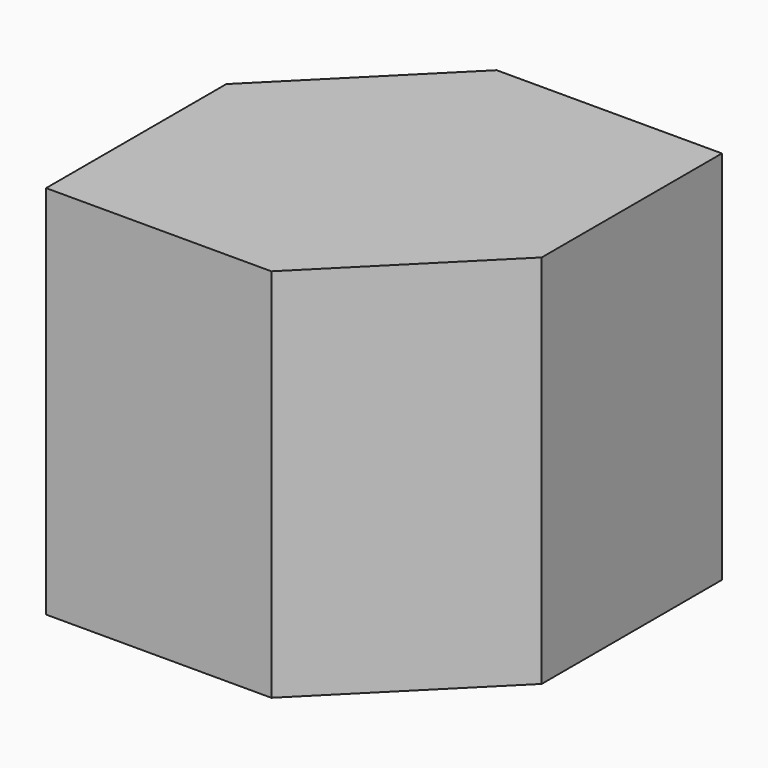
from build123d import *

# Parameters (mm, degrees)
F0_W     = 127
F0_H     = 127
F1_DEPTH = 101.6
F3_DEPTH = 101.6
F4_DEPTH = 25.4


with BuildPart() as f1:
    # F0 (on Top) → F1 (new body)
    with BuildSketch(Plane.XY):
        Rectangle(F0_W, F0_H)
    extrude(amount=F1_DEPTH)

    # F2 (on face) → F3 (cut)
    with BuildSketch(Plane.XY.offset(101.6)):
        Polygon((-12.7, 63.5), (-63.5, 63.5), (-63.5, 12.7), align=None)
        Polygon((63.5, -63.5), (63.5, -12.7), (12.7, -63.5), align=None)
    extrude(amount=-F3_DEPTH, mode=Mode.SUBTRACT)

    # F1_face (on face) → F4 (join)
    with BuildSketch(Plane.XY.offset(101.6)):
        Polygon((63.5, -12.7), (63.5, 63.5), (-12.7, 63.5), (-63.5, 12.7), (-63.5, -63.5), (12.7, -63.5), align=None)
    extrude(amount=F4_DEPTH)


solid = f1.part
